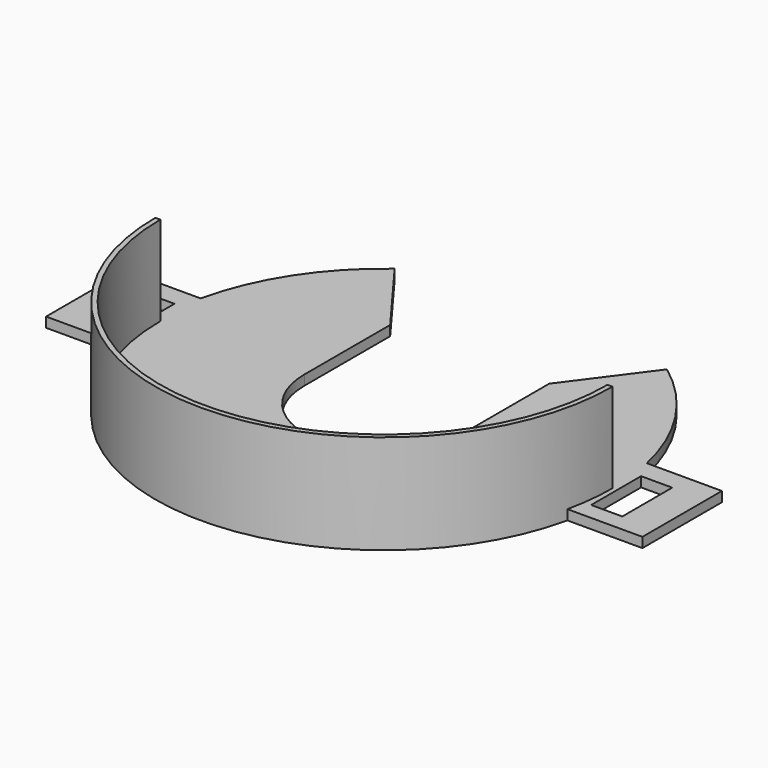
from build123d import *

# Parameters (mm, degrees)
F0_R      = 146.05
F1_DEPTH  = 63.5
F2_R      = 142.875
F3_DEPTH  = 57.15
F5_DEPTH  = 57.15
F7_DEPTH  = 63.501
F8_W      = 381
F8_H      = 63.5
F9_DEPTH  = 6.35
F10_W     = 19.7993
F10_H     = 39.899997
F11_DEPTH = 6.35
F12_W     = 19.89836
F12_H     = 39.878
F13_DEPTH = 6.35
F14_R     = 50.8
F15_DEPTH = 6.35
F16_W     = 101.6
F16_H     = 81.28
F17_DEPTH = 63.501


with BuildPart() as f1:
    # F0 (on Top) → F1 (new body)
    with BuildSketch(Plane.XY):
        Circle(F0_R)
    extrude(amount=F1_DEPTH)

    # F2 (on face) → F3 (cut)
    with BuildSketch(Plane.XY.offset(63.5)):
        Circle(F2_R)
    extrude(amount=-F3_DEPTH, mode=Mode.SUBTRACT)

    # F4 (on face) → F5 (cut)
    with BuildSketch(Plane.XY.offset(63.5)):
        with BuildLine():
            Line((142.875, 0), (186.450183, 0))
            Line((186.450183, 0), (186.450183, 147.836223))
            Line((186.450183, 147.836223), (-190.863192, 147.836223))
            Line((-190.863192, 147.836223), (-190.863192, 0))
            Line((-190.863192, 0), (-142.875, 0))
            ThreePointArc((-142.875, 0), (0, 142.875), (142.875, 0))
        make_face()
    extrude(amount=-F5_DEPTH, mode=Mode.SUBTRACT)

    # F6 (on face) → F7 (cut, through all)
    with BuildSketch(Plane.XY.offset(63.5)):
        with BuildLine():
            Line((0, 0), (94.561977, 127.513117))
            ThreePointArc((94.561977, 127.513117), (0, 159.458628), (-94.561977, 127.513117))
            Line((-94.561977, 127.513117), (0, 0))
        make_face()
    extrude(amount=-F7_DEPTH, mode=Mode.SUBTRACT)

    # F8 (on Top) → F9 (join)
    with BuildSketch(Plane.XY):
        with Locations((0, 0.073786)):
            Rectangle(F8_W, F8_H)
    extrude(amount=F9_DEPTH)

    # F10 (on face) → F11 (cut)
    with BuildSketch(Plane.XY.offset(6.35)):
        with Locations((-159.01035, -0.826213)):
            Rectangle(F10_W, F10_H)
    extrude(amount=-F11_DEPTH, mode=Mode.SUBTRACT)

    # F12 (on Top) → F13 (cut)
    with BuildSketch(Plane.XY):
        with Locations((158.96082, -0.815214)):
            Rectangle(F12_W, F12_H)
    extrude(amount=F13_DEPTH, mode=Mode.SUBTRACT)

    # F14 (on Top) → F15 (cut)
    with BuildSketch(Plane.XY):
        Circle(F14_R)
    extrude(amount=F15_DEPTH, mode=Mode.SUBTRACT)

    # F16 (on Top) → F17 (cut, through all)
    with BuildSketch(Plane.XY):
        with Locations((0, 40.64)):
            Rectangle(F16_W, F16_H)
    extrude(amount=F17_DEPTH, mode=Mode.SUBTRACT)


solid = f1.part
